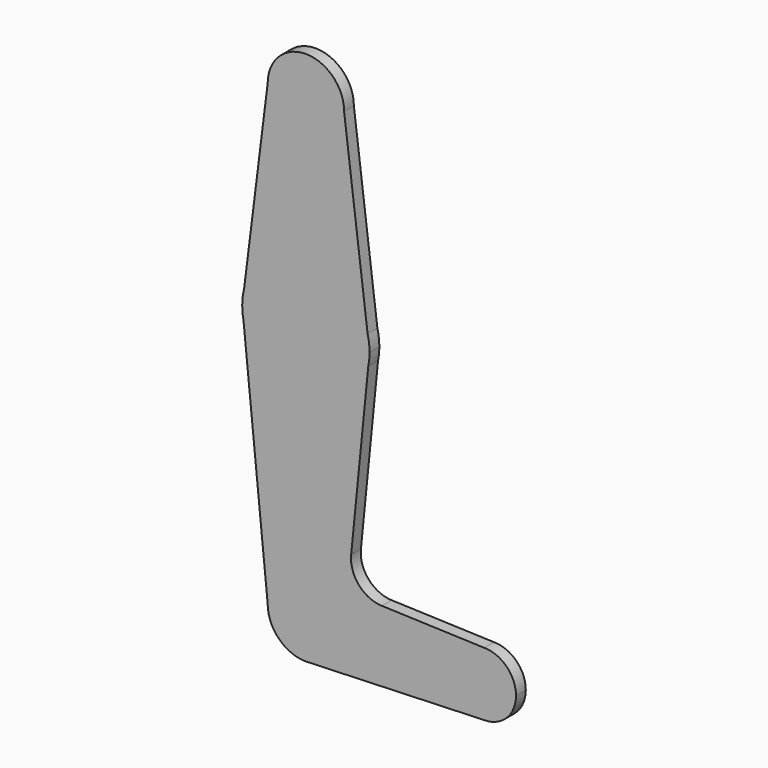
from build123d import *

# Parameters (mm, degrees)
F1_DEPTH = 3.048


with BuildPart() as f1:
    # F0 (on Front) → F1 (new body)
    with BuildSketch(Plane.XZ):
        with BuildLine():
            ThreePointArc((-9.525, 0), (0, 9.525), (9.525, 0))
            Line((9.525, 0), (36.5125, 0))
            ThreePointArc((36.5125, 0), (38.8373399243, 5.6126600757), (44.45, 7.9375))
            Line((44.45, 7.9375), (18.9105730062, 8.8496223926))
            ThreePointArc((18.9105730062, 8.8496223926), (13.2053552395, 11.5661923774), (11.2835831424, 17.5858314242))
            Line((11.2835831424, 17.5858314242), (15.5606435644, 60.3564356436))
            ThreePointArc((15.5606435644, 60.3564356436), (0, 47.625), (-15.5606435644, 60.3564356436))
            Line((-15.5606435644, 60.3564356436), (-9.525, 0))
        make_face()
        with BuildLine():
            ThreePointArc((0.6794904459, -9.5007324841), (6.9712901065, -6.4905114784), (9.525, 0))
            ThreePointArc((9.525, 0), (0, 9.525), (-9.525, 0))
            ThreePointArc((-9.525, 0), (-6.7351920908, -6.7351920908), (0, -9.525))
            Line((0, -9.525), (0.6794904459, -9.5007324841))
        make_face()
        with BuildLine():
            Line((36.5125, 0), (9.525, 0))
            ThreePointArc((9.525, 0), (6.9712901065, -6.4905114784), (0.6794904459, -9.5007324841))
            Line((0.6794904459, -9.5007324841), (44.45, -7.9375))
            ThreePointArc((44.45, -7.9375), (38.8373399243, -5.6126600757), (36.5125, 0))
        make_face()
        with BuildLine():
            ThreePointArc((44.45, 7.9375), (38.8373399243, 5.6126600757), (36.5125, 0))
            ThreePointArc((36.5125, 0), (38.8373399243, -5.6126600757), (44.45, -7.9375))
            ThreePointArc((44.45, -7.9375), (50.0626600757, -5.6126600757), (52.3875, 0))
            ThreePointArc((52.3875, 0), (50.0626600757, 5.6126600757), (44.45, 7.9375))
        make_face()
        with BuildLine():
            ThreePointArc((0, -9.525), (0.3399618281, -9.5189311877), (0.6794904459, -9.5007324841))
            Line((0.6794904459, -9.5007324841), (0, -9.525))
        make_face()
        with BuildLine():
            Line((-15.875, 63.5), (-15.5606435644, 60.3564356436))
            ThreePointArc((-15.5606435644, 60.3564356436), (0, 47.625), (15.5606435644, 60.3564356436))
            Line((15.5606435644, 60.3564356436), (15.875, 63.5))
            Line((15.875, 63.5), (15.3865384615, 67.4076923077))
            ThreePointArc((15.3865384615, 67.4076923077), (0, 79.375), (-15.3865384615, 67.4076923077))
            Line((-15.3865384615, 67.4076923077), (-15.875, 63.5))
        make_face()
        with BuildLine():
            ThreePointArc((-15.875, 63.5), (-15.7962153946, 61.9203784605), (-15.5606435644, 60.3564356436))
            Line((-15.5606435644, 60.3564356436), (-15.875, 63.5))
        make_face()
        with BuildLine():
            ThreePointArc((-15.3865384615, 67.4076923077), (-15.7524112928, 65.4690514116), (-15.875, 63.5))
            Line((-15.875, 63.5), (-15.3865384615, 67.4076923077))
        make_face()
        with BuildLine():
            Line((15.875, 63.5), (15.5606435644, 60.3564356436))
            ThreePointArc((15.5606435644, 60.3564356436), (15.7962153946, 61.9203784605), (15.875, 63.5))
        make_face()
        with BuildLine():
            Line((-9.525, 114.3), (-15.3865384615, 67.4076923077))
            ThreePointArc((-15.3865384615, 67.4076923077), (0, 79.375), (15.3865384615, 67.4076923077))
            Line((15.3865384615, 67.4076923077), (9.525, 114.3))
            ThreePointArc((9.525, 114.3), (0, 104.775), (-9.525, 114.3))
        make_face()
        with BuildLine():
            Line((15.3865384615, 67.4076923077), (15.875, 63.5))
            ThreePointArc((15.875, 63.5), (15.7524112928, 65.4690514116), (15.3865384615, 67.4076923077))
        make_face()
        with BuildLine():
            ThreePointArc((9.525, 114.3), (0, 123.825), (-9.525, 114.3))
            ThreePointArc((-9.525, 114.3), (0, 104.775), (9.525, 114.3))
        make_face()
    extrude(amount=F1_DEPTH)


solid = f1.part
